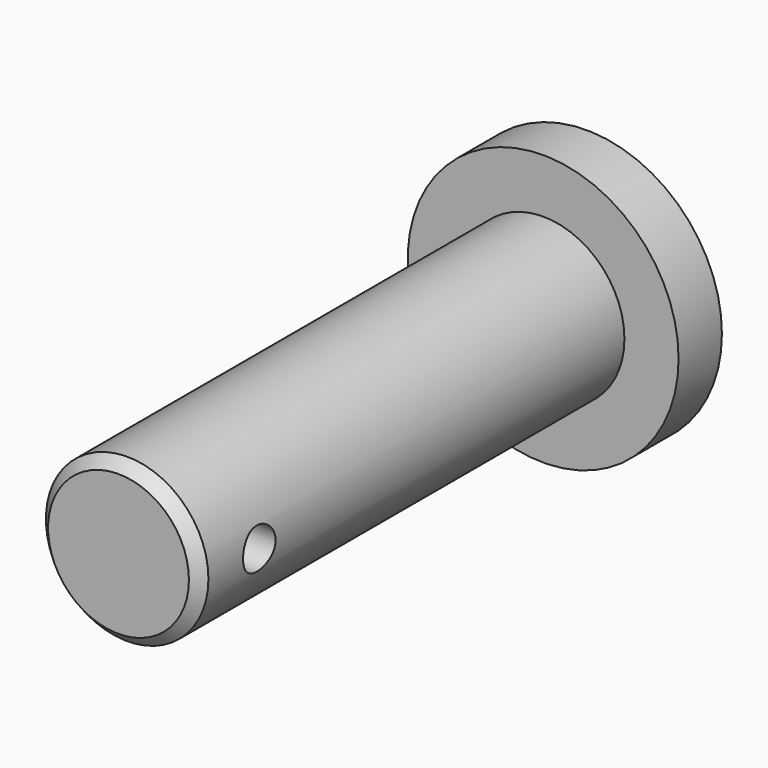
from build123d import *

# Parameters (mm, degrees)
F0_R     = 15.875
F1_DEPTH = 6.35
F2_R     = 9.525
F3_DEPTH = 62.23
F4_R     = 2.3876
F5_DEPTH = 63.5
F6_SIZE  = 1.27


with BuildPart() as f1:
    # F0 (on Front) → F1 (new body)
    with BuildSketch(Plane.XZ):
        Circle(F0_R)
    extrude(amount=F1_DEPTH)

    # F2 (on face) → F3 (join)
    with BuildSketch(Plane.XZ.offset(6.35)):
        Circle(F2_R)
    extrude(amount=F3_DEPTH)

    # F4 (on Right) → F5 (cut, symmetric)
    with BuildSketch(Plane.YZ):
        with Locations((-59.8424, 0)):
            Circle(F4_R)
    extrude(amount=F5_DEPTH, both=True, mode=Mode.SUBTRACT)

    # F6
    f6_edges = [f1.edges().sort_by_distance(p)[0] for p in [
        (-9.525, -68.58, 0),
    ]]
    chamfer(f6_edges, length=F6_SIZE)


solid = f1.part
